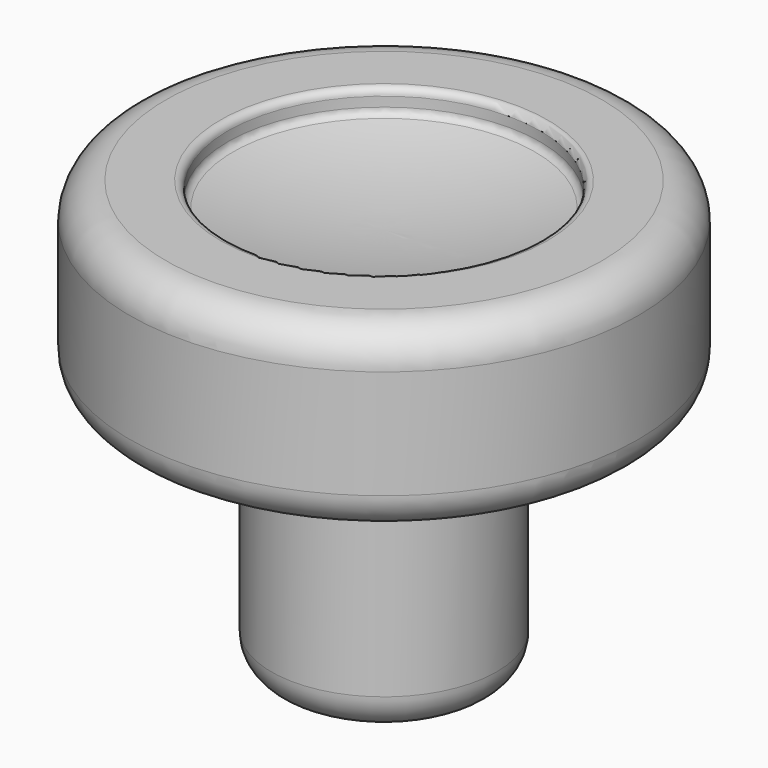
from build123d import *

# Parameters (mm, degrees)
F2_R = 0.254
F3_R = 1.27
F4_R = 0.254


with BuildPart() as f1:
    # F0 (on Front) → F1 (revolve)
    with BuildSketch(Plane.XZ):
        with BuildLine():
            Line((0, 13.589), (0, 0))
            Line((0, 0), (3.937, 0))
            Line((3.937, 0), (3.937, 8.763))
            Line((3.937, 8.763), (8.89, 8.763))
            Line((8.89, 8.763), (8.89, 15.113))
            Line((8.89, 15.113), (5.461, 15.113))
            Line((5.461, 15.113), (5.461, 14.3256))
            ThreePointArc((5.461, 14.3256), (2.755227, 13.77398), (0, 13.589))
        make_face()
    revolve(axis=Axis((0, 0, 6.7945), (0, 0, 1)))

    # F2
    f2_edges = [f1.edges().sort_by_distance(p)[0] for p in [
        (-5.461, 0, 14.3256),
    ]]
    fillet(f2_edges, radius=F2_R)

    # F3
    f3_edges = [f1.edges().sort_by_distance(p)[0] for p in [
        (-8.89, 0, 15.113),
        (-8.89, 0, 8.763),
        (-3.937, 0, 0),
    ]]
    fillet(f3_edges, radius=F3_R)

    # F4
    f4_edges = [f1.edges().sort_by_distance(p)[0] for p in [
        (-5.461, 0, 15.113),
    ]]
    fillet(f4_edges, radius=F4_R)


solid = f1.part
